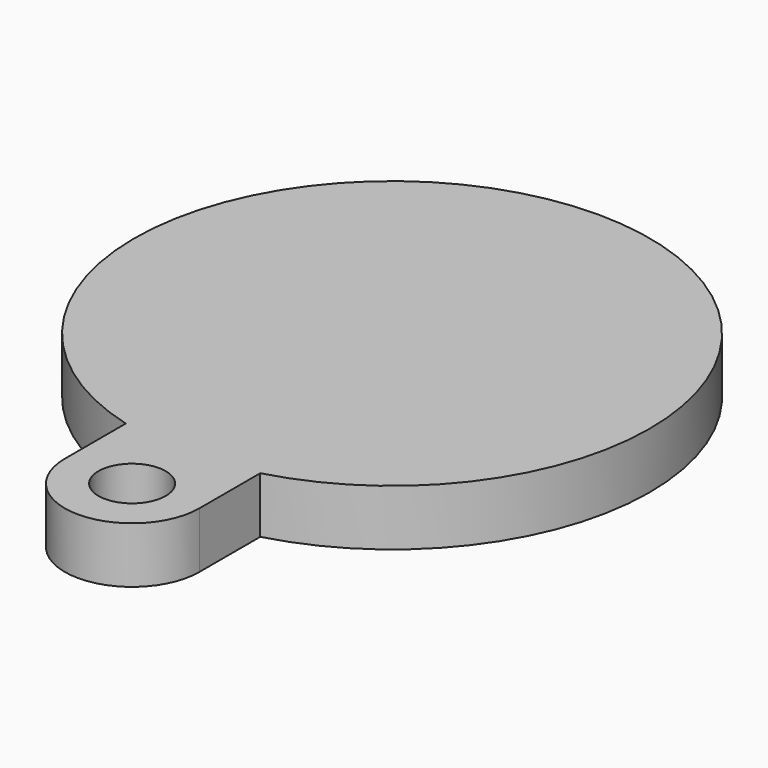
from build123d import *

# Parameters (mm, degrees)
F0_R     = 1.5
F1_DEPTH = 2.5


with BuildPart() as f1:
    # F0 (on Top) → F1 (new body)
    with BuildSketch(Plane.XY):
        with BuildLine():
            Line((-3, -11.101802), (-3, -14.5))
            ThreePointArc((-3, -14.5), (0, -17.5), (3, -14.5))
            Line((3, -14.5), (3, -11.101802))
            ThreePointArc((3, -11.101802), (11.400016, 1.513156), (0, 11.5))
            ThreePointArc((0, 11.5), (-11.400016, 1.513156), (-3, -11.101802))
        make_face()
        with Locations((0, -14.5)):
            Circle(F0_R, mode=Mode.SUBTRACT)
    extrude(amount=F1_DEPTH)


solid = f1.part
